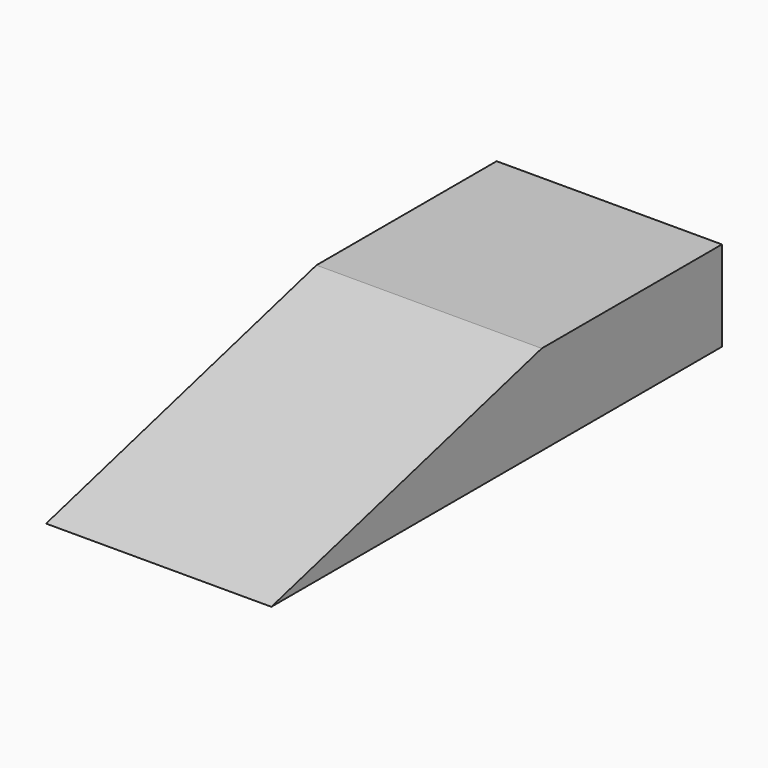
from build123d import *

# Parameters (mm, degrees)
F0_W     = 508
F0_H     = 203.2
F1_DEPTH = 508
F2_T     = -2.54


with BuildPart() as f1:
    # F0 (on Right) → F1 (new body)
    with BuildSketch(Plane.YZ):
        Polygon((0, -203.2), (0, 0), (-762, -203.2), align=None)
        with Locations((254, -101.6)):
            Rectangle(F0_W, F0_H)
    extrude(amount=F1_DEPTH)

    # F2
    f2_openings = [f1.faces().sort_by_distance(p)[0] for p in [
        (254, 508, -101.6),
        (254, -127, -203.2),
    ]]
    offset(amount=F2_T, openings=f2_openings)


solid = f1.part
